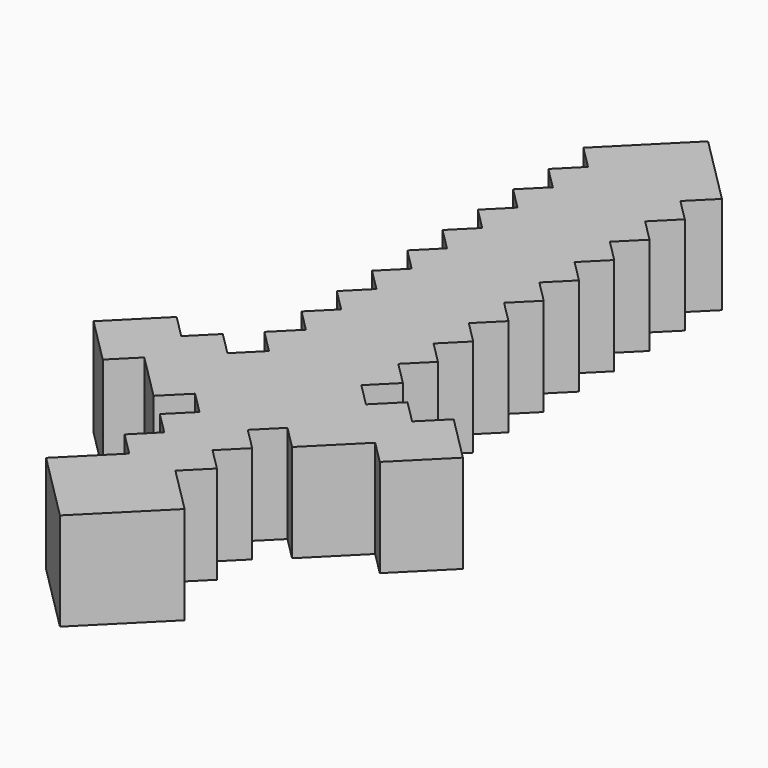
from build123d import *

# Parameters (mm, degrees)
F0_W     = 40
F0_H     = 100
F1_DEPTH = 15
F3_DEPTH = 10
F4_W     = 100
F4_H     = 15
F5_DEPTH = 100


with BuildPart() as f1:
    # F0 (on Top) → F1 (new body)
    with BuildSketch(Plane.XY):
        Rectangle(F0_W, F0_H)
    extrude(amount=F1_DEPTH)

    # F2 (on face) → F3 (join)
    with BuildSketch(Plane(origin=(0, 0, 0), x_dir=(1, 0, 0), z_dir=(0, 0, -1))):
        Polygon((7.071068, 42.928932), (0, 50), (-7.071068, 42.928932), (-2.357023, 38.214887), (-4.714045, 35.857864), (-2.464045, 33.607864), (-4.714045, 31.357864), (-2.464045, 29.107864), (-4.714045, 26.857864), (-7.071068, 29.214887), (-11.785113, 24.500842), (-14.142136, 26.857864), (-18.856181, 22.143819), (-14.142136, 17.429774), (-11.785113, 19.786797), (-9.42809, 17.429774), (-7.071068, 19.786797), (-4.714045, 17.429774), (-7.071068, 15.072751), (-4.714045, 12.715729), (-6.964045, 10.465729), (-4.714045, 8.215729), (-6.964045, 5.965729), (-4.714045, 3.715729), (-6.964045, 1.465729), (-4.714045, -0.784271), (-6.964045, -3.034271), (-4.714045, -5.284271), (-6.964045, -7.534271), (-4.714045, -9.784271), (-6.964045, -12.034271), (-4.714045, -14.284271), (-6.964045, -16.534271), (-4.714045, -18.784271), (-6.964045, -21.034271), (-4.714045, -23.284271), (-7.071068, -25.641294), (0, -32.712362), (7.071068, -25.641294), (4.714045, -23.284271), (6.964045, -21.034271), (4.714045, -18.784271), (6.964045, -16.534271), (4.714045, -14.284271), (6.964045, -12.034271), (4.714045, -9.784271), (6.964045, -7.534271), (4.714045, -5.284271), (6.964045, -3.034271), (4.714045, -0.784271), (6.964045, 1.465729), (4.714045, 3.715729), (6.964045, 5.965729), (4.714045, 8.215729), (6.964045, 10.465729), (4.714045, 12.715729), (7.071068, 15.072751), (4.714045, 17.429774), (7.071068, 19.786797), (9.42809, 17.429774), (11.785113, 19.786797), (14.142136, 17.429774), (18.856181, 22.143819), (14.142136, 26.857864), (11.785113, 24.500842), (7.071068, 29.214887), (4.714045, 26.857864), (2.464045, 29.107864), (4.714045, 31.357864), (2.464045, 33.607864), (4.714045, 35.857864), (2.357023, 38.214887), align=None)
    extrude(amount=F3_DEPTH)

    # F4 (on face) → F5 (cut)
    with BuildSketch(Plane(origin=(-20, 0, 0), x_dir=(0, -1, 0), z_dir=(-1, 0, 0))):
        with Locations((0, 7.5)):
            Rectangle(F4_W, F4_H)
    extrude(amount=-F5_DEPTH, mode=Mode.SUBTRACT)


solid = f1.part
